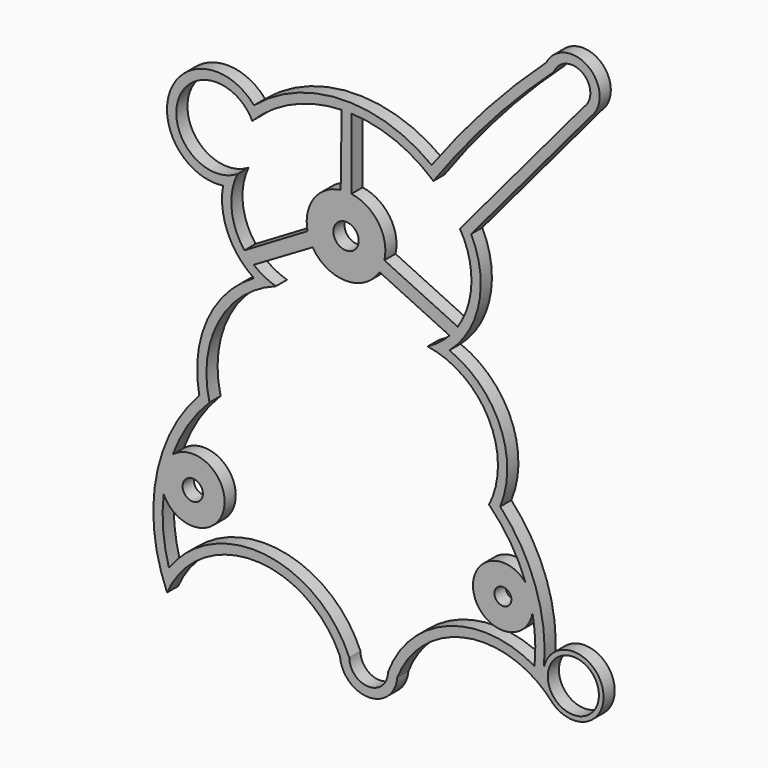
from build123d import *

# Parameters (mm, degrees)
F0_R     = 2.179644
F0_R_2   = 5.495
F0_R_3   = 1.811627
F0_R_4   = 2.717522
F1_DEPTH = 3


with BuildPart() as f1:
    # F0 (on Front) → F1 (new body)
    with BuildSketch(Plane.XZ):
        with BuildLine():
            ThreePointArc((4.748624, -43.868074), (19.905522, -31.458489), (38.356329, -38.03854))
            ThreePointArc((38.356329, -38.03854), (48.781106, -31.139926), (36.287612, -31.563568))
            ThreePointArc((36.287612, -31.563568), (34.479775, -16.939453), (26.872979, -4.319244))
            ThreePointArc((26.872979, -4.319244), (26.851679, 10.968683), (15.96134, 21.69816))
            ThreePointArc((15.96134, 21.69816), (22.323636, 32.655587), (20.63084, 45.212594))
            Line((20.63084, 45.212594), (46.282084, 75.748279))
            ThreePointArc((46.282084, 75.748279), (45.843056, 85.044031), (36.784028, 82.913828))
            ThreePointArc((36.784028, 82.913828), (23.791047, 69.810118), (12.145666, 55.495445))
            ThreePointArc((12.145666, 55.495445), (-7.14242, 61.665744), (-26.03866, 54.383233))
            ThreePointArc((-26.03866, 54.383233), (-44.027199, 51.327224), (-32.686998, 37.03294))
            ThreePointArc((-32.686998, 37.03294), (-31.643455, 28.376793), (-26.03866, 21.69816))
            ThreePointArc((-26.03866, 21.69816), (-36.080562, 10.571243), (-37.789793, -4.319244))
            ThreePointArc((-37.789793, -4.319244), (-47.116357, -23.066533), (-44.720202, -43.868074))
            ThreePointArc((-44.720202, -43.868074), (-26.129955, -31.677407), (-7.539708, -43.868074))
            ThreePointArc((-7.539708, -43.868074), (-1.395542, -49.586683), (4.748624, -43.868074))
        make_face()
        with Locations((-39.195588, -22.667399)):
            Circle(F0_R, mode=Mode.SUBTRACT)
        with BuildLine():
            ThreePointArc((2.764325, -43.460141), (-1.413553, -47.586646), (-5.555543, -43.424121))
            ThreePointArc((-5.555543, -43.424121), (-23.64801, -29.816144), (-44.305303, -39.078469))
            ThreePointArc((-44.305303, -39.078469), (-45.548112, -32.328702), (-45.443616, -25.466268))
            ThreePointArc((-45.443616, -25.466268), (-32.535702, -24.254044), (-43.510487, -17.352027))
            ThreePointArc((-43.510487, -17.352027), (-40.221713, -10.719441), (-35.605799, -4.931473))
            ThreePointArc((-35.605799, -4.931473), (-33.578613, 11.124985), (-21.324643, 21.696624))
            ThreePointArc((-21.324643, 21.696624), (-23.830093, 22.711263), (-26.078436, 24.211837))
            Line((-26.078436, 24.211837), (-13.440696, 31.617877))
            ThreePointArc((-13.440696, 31.617877), (-6.255235, 27.617264), (0.930225, 31.617877))
            Line((0.930225, 31.617877), (15.984657, 24.496045))
            ThreePointArc((15.984657, 24.496045), (13.79085, 22.50908), (11.294313, 20.919072))
            ThreePointArc((11.294313, 20.919072), (24.421465, 11.452539), (24.483739, -4.73182))
            ThreePointArc((24.483739, -4.73182), (29.09938, -10.414096), (32.365767, -16.96567))
            ThreePointArc((32.365767, -16.96567), (21.262061, -22.860799), (33.814338, -22.164239))
            ThreePointArc((33.814338, -22.164239), (34.375369, -26.760579), (34.29513, -31.390337))
            ThreePointArc((34.29513, -31.390337), (34.279314, -31.754857), (34.29513, -32.119377))
            ThreePointArc((34.29513, -32.119377), (15.892899, -30.458566), (2.764325, -43.460141))
        make_face(mode=Mode.SUBTRACT)
        with Locations((42.594204, -33.116606)):
            Circle(F0_R_2, mode=Mode.SUBTRACT)
        with Locations((27.461662, -21.133294)):
            Circle(F0_R_3, mode=Mode.SUBTRACT)
        with BuildLine():
            ThreePointArc((-29.585752, 40.232415), (-42.395978, 49.904419), (-26.407067, 51.320147))
            ThreePointArc((-26.407067, 51.320147), (-17.597387, 57.321958), (-7.197797, 59.663057))
            Line((-7.197797, 59.663057), (-7.403995, 44.445188))
            ThreePointArc((-7.403995, 44.445188), (-13.167698, 40.936028), (-14.526525, 34.326333))
            Line((-14.526525, 34.326333), (-28.093472, 26.283829))
            ThreePointArc((-28.093472, 26.283829), (-30.829773, 33.045206), (-29.585752, 40.232415))
        make_face(mode=Mode.SUBTRACT)
        with Locations((-6.255235, 36.070436)):
            Circle(F0_R_4, mode=Mode.SUBTRACT)
        with BuildLine():
            Line((44.843853, 77.145583), (18.220686, 45.452904))
            ThreePointArc((18.220686, 45.452904), (20.692534, 36.023365), (17.751182, 26.729566))
            Line((17.751182, 26.729566), (1.985629, 34.18781))
            ThreePointArc((1.985629, 34.18781), (0.697801, 40.877869), (-5.106476, 44.445188))
            Line((-5.106476, 44.445188), (-5.106476, 59.655479))
            ThreePointArc((-5.106476, 59.655479), (4.312025, 57.645012), (12.521453, 52.609595))
            ThreePointArc((12.521453, 52.609595), (24.714277, 67.842383), (38.436119, 81.713713))
            ThreePointArc((38.436119, 81.713713), (44.55039, 83.512084), (44.843853, 77.145583))
        make_face(mode=Mode.SUBTRACT)
    extrude(amount=F1_DEPTH)


solid = f1.part
